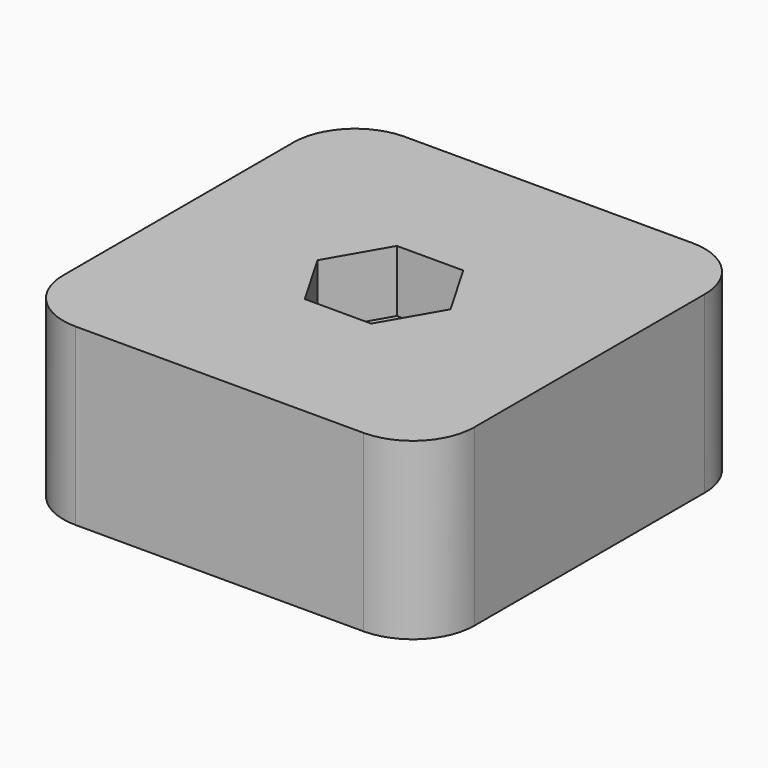
from build123d import *

# Parameters (mm, degrees)
SKETCH_W     = 20
SKETCH_H     = 20
SKETCH_R     = 1.6
PAD_DEPTH    = 8.5
POCKET_DEPTH = 3
FILLET_R     = 3


with BuildPart() as part:
    # Sketch → Pad (new body)
    with BuildSketch(Plane.XY):
        Rectangle(SKETCH_W, SKETCH_H)
        Circle(SKETCH_R, mode=Mode.SUBTRACT)
    extrude(amount=PAD_DEPTH)

    # Sketch001 (on Face7 of Pad) → Pocket (cut)
    with BuildSketch(Plane.XY.offset(8.5)):
        Polygon((1.616581, 2.8), (-1.616581, 2.8), (-3.233162, 0), (-1.616581, -2.8), (1.616581, -2.8), (3.233162, 0), align=None)
    extrude(amount=-POCKET_DEPTH, mode=Mode.SUBTRACT)

    # Fillet
    fillet_edges = [part.edges().sort_by_distance(p)[0] for p in [
        (10, -10, 4.25),
        (-10, -10, 4.25),
        (-10, 10, 4.25),
        (10, 10, 4.25),
    ]]
    fillet(fillet_edges, radius=FILLET_R)


solid = part.part
